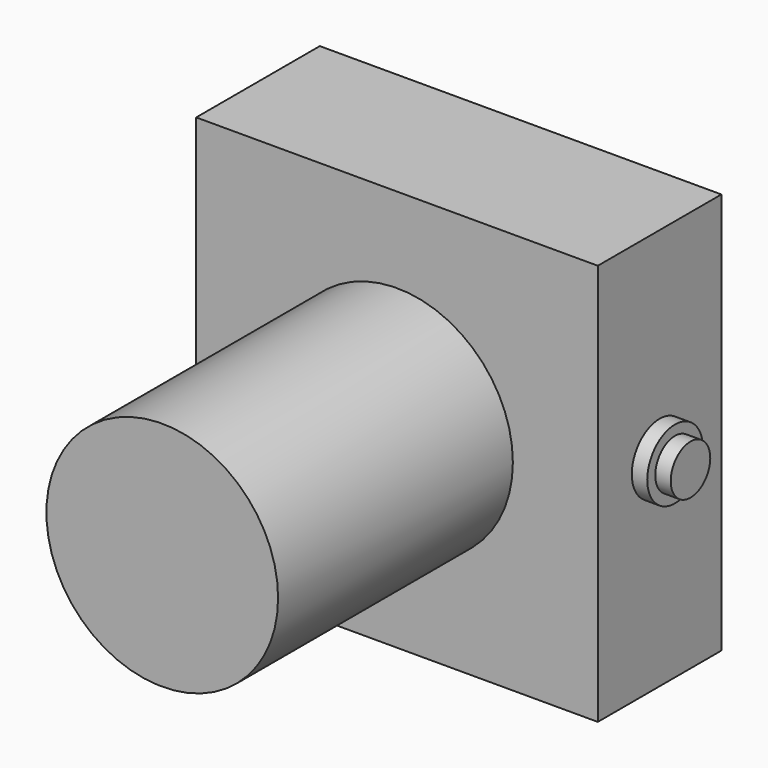
from build123d import *

# Parameters (mm, degrees)
F0_W      = 26
F0_H      = 26
F1_DEPTH  = 10
F2_R      = 7.5
F3_DEPTH  = 19
F5_DEPTH  = 1
F7_DEPTH  = 1
F8_R      = 1.6
F9_DEPTH  = 1
F10_R     = 1.6
F11_DEPTH = 1


with BuildPart() as f1:
    # F0 (on Front) → F1 (new body)
    with BuildSketch(Plane.XZ):
        Rectangle(F0_W, F0_H)
    extrude(amount=F1_DEPTH)

    # F2 (on face) → F3 (join)
    with BuildSketch(Plane.XZ.offset(10)):
        Circle(F2_R)
    extrude(amount=F3_DEPTH)

    # F4 (on face) → F5 (join)
    with BuildSketch(Plane.YZ.offset(13)):
        with BuildLine():
            ThreePointArc((-2.75, 0), (-5, 2.25), (-7.25, 0))
            Line((-7.25, 0), (-2.75, 0))
        make_face()
        with BuildLine():
            Line((-2.75, 0), (-7.25, 0))
            ThreePointArc((-7.25, 0), (-5, -2.25), (-2.75, 0))
        make_face()
    extrude(amount=F5_DEPTH)

    # F6 (on face) → F7 (join)
    with BuildSketch(Plane(origin=(-13, 0, 0), x_dir=(0, -1, 0), z_dir=(-1, 0, 0))):
        with BuildLine():
            ThreePointArc((7.25, 0), (5, 2.25), (2.75, 0))
            Line((2.75, 0), (7.25, 0))
        make_face()
        with BuildLine():
            Line((7.25, 0), (2.75, 0))
            ThreePointArc((2.75, 0), (5, -2.25), (7.25, 0))
        make_face()
    extrude(amount=F7_DEPTH)

    # F8 (on face) → F9 (join)
    with BuildSketch(Plane(origin=(-14, 0, 0), x_dir=(0, -1, 0), z_dir=(-1, 0, 0))):
        with Locations((5, 0)):
            Circle(F8_R)
    extrude(amount=F9_DEPTH)

    # F10 (on face) → F11 (join)
    with BuildSketch(Plane.YZ.offset(14)):
        with Locations((-5, 0)):
            Circle(F10_R)
    extrude(amount=F11_DEPTH)


solid = f1.part
